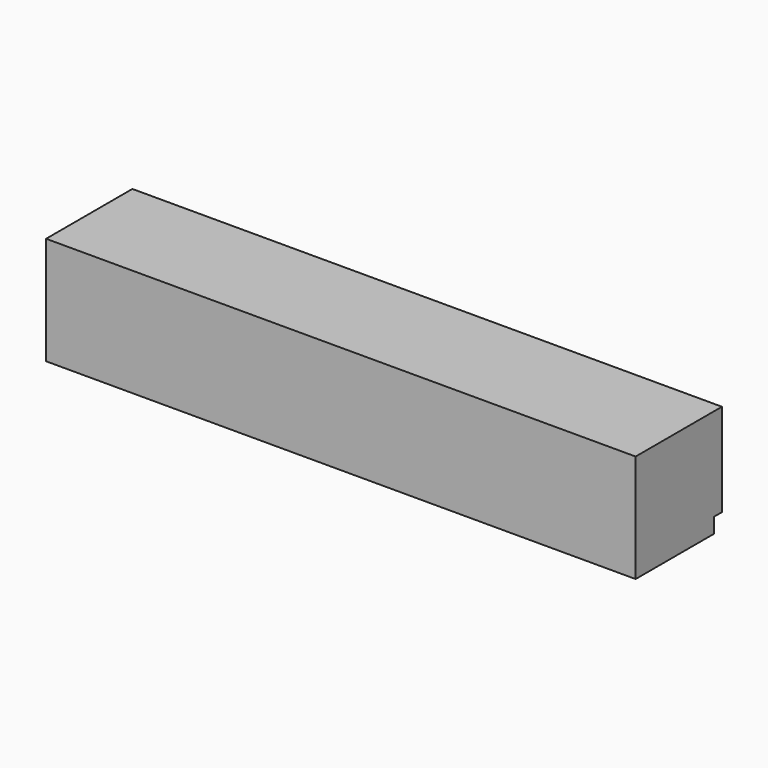
from build123d import *

# Parameters (mm, degrees)
F2_DEPTH      = 2959.1
F2_DEPTH_BACK = 25.4


with BuildPart() as f2:
    # F1 (on Right) → F2 (new body, two sides)
    with BuildSketch(Plane.YZ) as f2_sk:
        Polygon((0, 546.1), (0, 0), (495.3, 0), (495.3, 76.2), (546.1, 76.2), (546.1, 546.1), align=None)
    extrude(amount=F2_DEPTH)
    extrude(f2_sk.sketch, amount=-F2_DEPTH_BACK)


solid = f2.part
